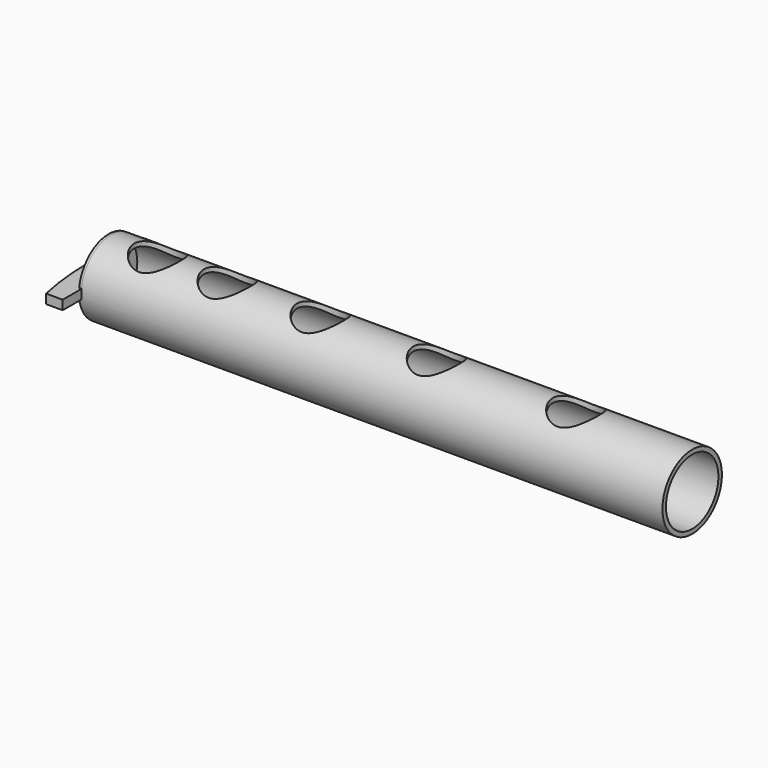
from build123d import *

# Parameters (mm, degrees)
F0_R     = 80
F0_R_2   = 70.5
F1_DEPTH = 1250
F2_R     = 80
F3_DEPTH = 5
F5_DEPTH = 200
F6_DEPTH = 10


with BuildPart() as f1:
    # F0 (on Right) → F1 (new body)
    with BuildSketch(Plane.YZ):
        Circle(F0_R)
        Circle(F0_R_2, mode=Mode.SUBTRACT)
    extrude(amount=F1_DEPTH)

    # F2 (on face) → F3 (join)
    with BuildSketch(Plane(origin=(0, 0, 0), x_dir=(0, -1, 0), z_dir=(-1, 0, 0))):
        Circle(F2_R)
    extrude(amount=F3_DEPTH)

    # F4 (on Top) → F5 (cut)
    with BuildSketch(Plane.XY):
        with BuildLine():
            Line((150, 0), (100, 0))
            Line((100, 0), (50, 0))
            ThreePointArc((50, 0), (100, -50), (150, 0))
        make_face()
        with BuildLine():
            Line((50, 0), (100, 0))
            Line((100, 0), (150, 0))
            ThreePointArc((150, 0), (100, 50), (50, 0))
        make_face()
        with BuildLine():
            ThreePointArc((300, 0), (250, 50), (200, 0))
            Line((200, 0), (250, 0))
            Line((250, 0), (300, 0))
        make_face()
        with BuildLine():
            Line((250, 0), (200, 0))
            ThreePointArc((200, 0), (250, -50), (300, 0))
            Line((300, 0), (250, 0))
        make_face()
        with BuildLine():
            ThreePointArc((500, 0), (450, 50), (400, 0))
            Line((400, 0), (450, 0))
            Line((450, 0), (500, 0))
        make_face()
        with BuildLine():
            Line((450, 0), (400, 0))
            ThreePointArc((400, 0), (450, -50), (500, 0))
            Line((500, 0), (450, 0))
        make_face()
        with BuildLine():
            ThreePointArc((750, 0), (700, 50), (650, 0))
            Line((650, 0), (700, 0))
            Line((700, 0), (750, 0))
        make_face()
        with BuildLine():
            Line((700, 0), (650, 0))
            ThreePointArc((650, 0), (700, -50), (750, 0))
            Line((750, 0), (700, 0))
        make_face()
        with BuildLine():
            ThreePointArc((1050, 0), (1000, 50), (950, 0))
            Line((950, 0), (1000, 0))
            Line((1000, 0), (1050, 0))
        make_face()
        with BuildLine():
            Line((1000, 0), (950, 0))
            ThreePointArc((950, 0), (1000, -50), (1050, 0))
            Line((1050, 0), (1000, 0))
        make_face()
    extrude(amount=F5_DEPTH, mode=Mode.SUBTRACT)

    # F4 (on Top) → F6 (join, symmetric)
    with BuildSketch(Plane.XY):
        with BuildLine():
            Line((0, -130), (0, 0))
            Line((0, 0), (0, 130))
            Line((0, 130), (-35.7473858243, 130))
            ThreePointArc((-35.7473858243, 130), (-50, 0), (-35.7473858243, -130))
            Line((-35.7473858243, -130), (0, -130))
        make_face()
    extrude(amount=F6_DEPTH, both=True)


solid = f1.part
